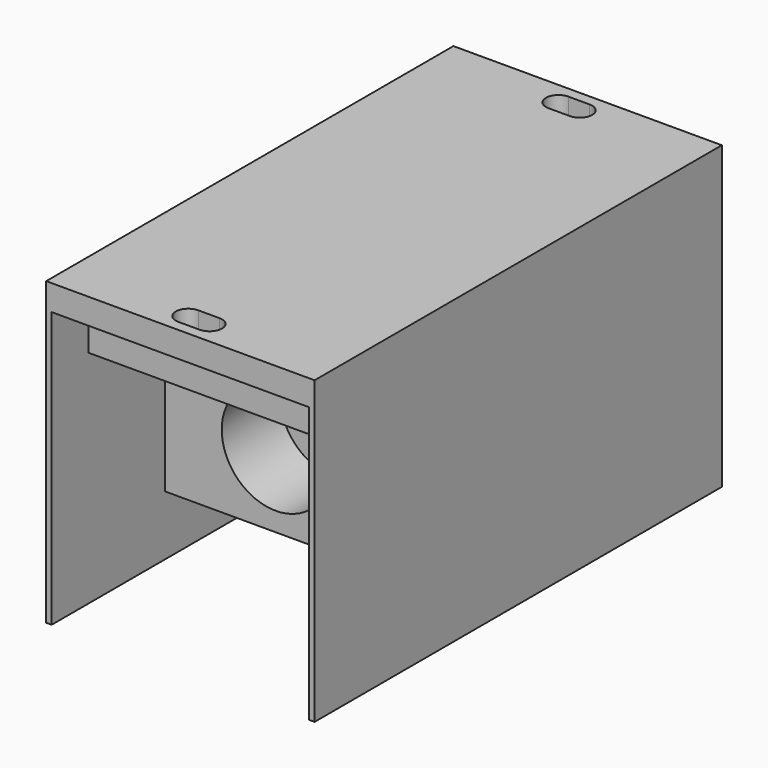
from build123d import *

# Parameters (mm, degrees)
F0_W     = 70.66
F0_H     = 114.3
F1_DEPTH = 22
F0_H_2   = 12.7
F2_DEPTH = 7
F3_DEPTH = 82.55
F4_W     = 60.66
F4_H     = 74.3
F5_DEPTH = 40
F6_R     = 14.816073
F7_DEPTH = 20
F8_R     = 7.005396
F9_DEPTH = 20


with BuildPart() as f1:
    # F0 (on Top) → F1 (new body)
    with BuildSketch(Plane.XY):
        Rectangle(F0_W, F0_H)
    extrude(amount=-F1_DEPTH)

    # F0 (on Top) → F2 (join)
    with BuildSketch(Plane.XY):
        with Locations((0, -63.5)):
            Rectangle(F0_W, F0_H_2)
        with BuildLine():
            ThreePointArc((-2.921, -66.929), (-6.35, -63.5), (-2.921, -60.071))
            Line((-2.921, -60.071), (2.921, -60.071))
            ThreePointArc((2.921, -60.071), (5.345669, -61.075331), (6.35, -63.5))
            ThreePointArc((6.35, -63.5), (5.345669, -65.924669), (2.921, -66.929))
            Line((2.921, -66.929), (-2.921, -66.929))
        make_face(mode=Mode.SUBTRACT)
        with Locations((0, 63.5)):
            Rectangle(F0_W, F0_H_2)
        with BuildLine():
            ThreePointArc((2.921, 66.929), (5.345669, 65.924669), (6.35, 63.5))
            ThreePointArc((6.35, 63.5), (5.345669, 61.075331), (2.921, 60.071))
            Line((2.921, 60.071), (-2.921, 60.071))
            ThreePointArc((-2.921, 60.071), (-6.35, 63.5), (-2.921, 66.929))
            Line((-2.921, 66.929), (2.921, 66.929))
        make_face(mode=Mode.SUBTRACT)
    extrude(amount=-F2_DEPTH)

    # F0 (on Top) → F3 (join)
    with BuildSketch(Plane.XY):
        Polygon((-35.33, 69.85), (-36.83, 69.85), (-36.83, -69.85), (-35.33, -69.85), (-35.33, -57.15), (-35.33, 57.15), align=None)
        Polygon((36.83, 69.85), (35.33, 69.85), (35.33, 57.15), (35.33, -57.15), (35.33, -69.85), (36.83, -69.85), align=None)
    extrude(amount=-F3_DEPTH)

    # F4 (on face) → F5 (join)
    with BuildSketch(Plane(origin=(0, 0, -22), x_dir=(1, 0, 0), z_dir=(0, 0, -1))):
        Rectangle(F4_W, F4_H)
    extrude(amount=F5_DEPTH)

    # F6 (on face) → F7 (cut)
    with BuildSketch(Plane.XZ.offset(37.15)):
        with Locations((0, -42)):
            Circle(F6_R)
    extrude(amount=-F7_DEPTH, mode=Mode.SUBTRACT)

    # F8 (on face) → F9 (cut)
    with BuildSketch(Plane(origin=(0, 37.15, 0), x_dir=(-1, 0, 0), z_dir=(0, 1, 0))):
        with Locations((15.165, -32)):
            Circle(F8_R)
        with Locations((15.165, -52)):
            Circle(F8_R)
        with Locations((-15.165, -52)):
            Circle(F8_R)
        with Locations((-15.165, -32)):
            Circle(F8_R)
    extrude(amount=-F9_DEPTH, mode=Mode.SUBTRACT)


solid = f1.part
